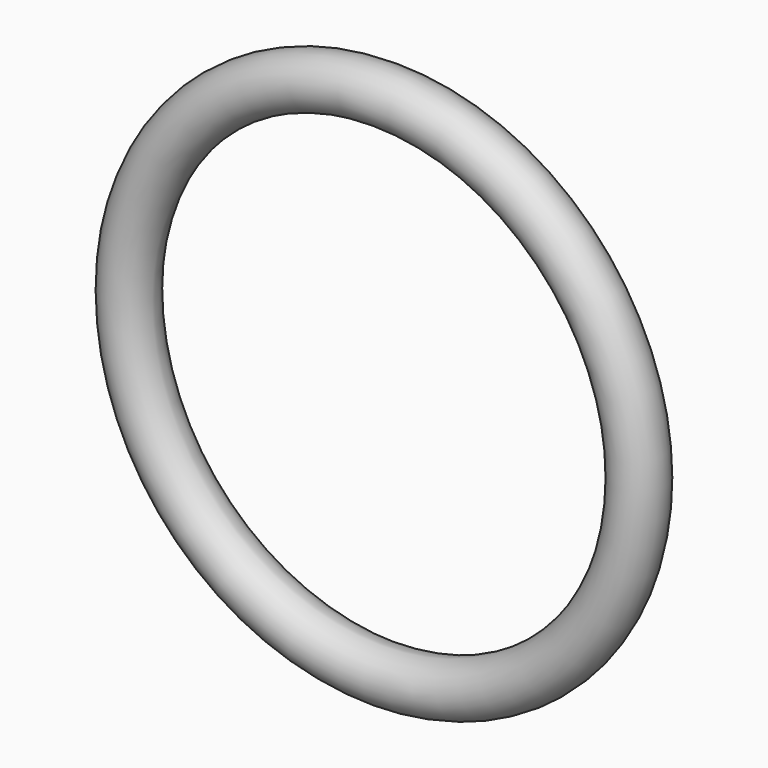
from build123d import *

# Parameters (mm, degrees)
F0_R = 10.16


with BuildPart() as f2:
    # F2: sweep along a path in F1
    with BuildLine(Plane.XZ) as f2_path:
        CenterArc((0.182301, -3.071607), 99.606574, 0, 360)
    # F0 (on Top) → F2 (sweep)
    with BuildSketch(Plane.XY):
        with Locations((-99.06, 0)):
            Circle(F0_R)
    sweep(path=f2_path.line)


solid = f2.part
